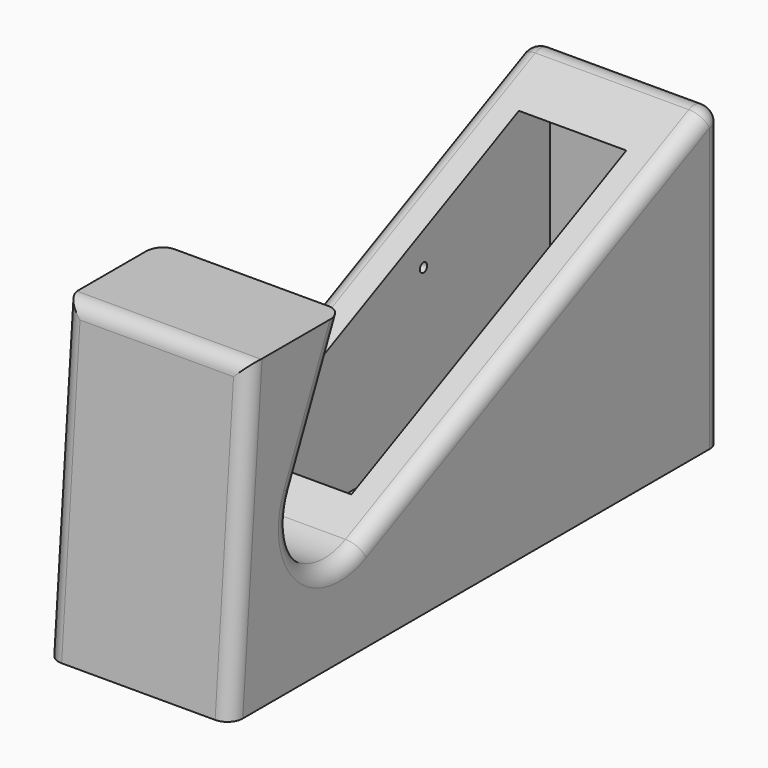
from build123d import *

# Parameters (mm, degrees)
F1_DEPTH = 30
F2_R     = 5
F3_W     = 124.640293
F3_H     = 81.299469
F4_DEPTH = 17.5
F5_R     = 1.5
F6_DEPTH = 22.5


with BuildPart() as f1:
    # F0 (on Right) → F1 (new body, symmetric)
    with BuildSketch(Plane.YZ):
        with BuildLine():
            Line((-100, -47.343845), (100, -47.343845))
            Line((100, -47.343845), (100, 52.656155))
            Line((100, 52.656155), (-46.951734, -17.113248))
            ThreePointArc((-46.951734, -17.113248), (-69.557005, -13.302077), (-73.732945, 9.238661))
            Line((-73.732945, 9.238661), (-53.972553, 52.656155))
            Line((-53.972553, 52.656155), (-92.148267, 52.656155))
            Line((-92.148267, 52.656155), (-100, -47.343845))
        make_face()
    extrude(amount=F1_DEPTH, both=True)

    # F2
    f2_edges = [f1.edges().sort_by_distance(p)[0] for p in [
        (0, -92.148267, 52.656155),
        (0, 100, 52.656155),
        (30, 26.524133, 17.771454),
        (-30, 26.524133, 17.771454),
        (30, 100, 2.656155),
        (-30, 100, 2.656155),
        (30, -96.074133, 2.656155),
        (-30, -96.074133, 2.656155),
    ]]
    fillet(f2_edges, radius=F2_R)

    # F3 (on Right) → F4 (cut, symmetric)
    with BuildSketch(Plane.YZ):
        with Locations((27.194251, 0.991457)):
            Rectangle(F3_W, F3_H)
    extrude(amount=F4_DEPTH, both=True, mode=Mode.SUBTRACT)

    # F5 (on Right) → F6 (cut, symmetric)
    with BuildSketch(Plane.YZ):
        with Locations((37.958637, 12.46403)):
            Circle(F5_R)
    extrude(amount=F6_DEPTH, both=True, mode=Mode.SUBTRACT)


solid = f1.part
